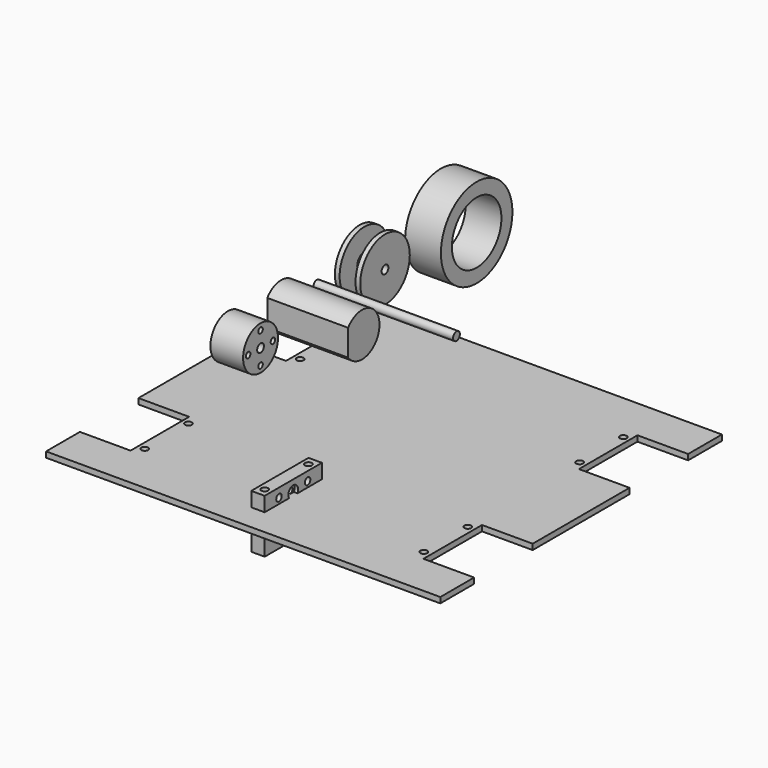
from build123d import *

# Parameters (mm, degrees)
F0_R           = 1.219
F1_DEPTH       = 2
F2_W           = 25.4
F2_H           = 19.05
F2_R           = 2.175
F2_R_2         = 1.219
F2_R_3         = 2
F3_DEPTH       = 4.763
F4_D           = 2.438
F4_CBORE_D     = 4.35
F4_CBORE_DEPTH = 1.3
F6_D           = 2.438
F7_R           = 7.75
F7_R_2         = 1
F7_R_3         = 1.5
F8_DEPTH       = 11.6
F9_SIZE        = 0.25
F11_DEPTH      = 28.7
F12_R          = 1.5
F13_DEPTH      = 49.6
F14_R          = 11
F14_R_2        = 1.5
F15_DEPTH      = 9
F16_T          = -1.68
F17_R          = 15.875
F17_R_2        = 11
F17_R_3        = 3.18
F18_DEPTH      = 12.7
F19_D          = 22
F19_DEPTH      = 20
F19_TIP        = 6.6094668093


with BuildPart() as f1:
    # F0 (on Top) → F1 (new body)
    with BuildSketch(Plane.XY):
        Polygon((69.8144591255, 53.6121664921), (69.8144591255, 68.6121664921), (-70.1855408745, 68.6121664921), (-70.1855408745, 53.6121664921), (-52.1855408745, 53.6121664921), (-52.1855408745, 27.6121664921), (-70.1855408745, 27.6121664921), (-70.1855408745, -15.3878335079), (-52.1855408745, -15.3878335079), (-52.1855408745, -41.3878335079), (-70.1855408745, -41.3878335079), (-70.1855408745, -56.3878335079), (69.8144591255, -56.3878335079), (69.8144591255, -41.3878335079), (51.8144591255, -41.3878335079), (51.8144591255, -15.3878335079), (69.8144591255, -15.3878335079), (69.8144591255, 27.6121664921), (51.8144591255, 27.6121664921), (51.8144591255, 53.6121664921), align=None)
        with Locations((-49.8040408745, -38.0878335079)):
            Circle(F0_R, mode=Mode.SUBTRACT)
        with Locations((-49.8040408745, -18.6878335079)):
            Circle(F0_R, mode=Mode.SUBTRACT)
        with Locations((49.3261239358, -38.0878335079)):
            Circle(F0_R, mode=Mode.SUBTRACT)
        with Locations((49.4325323884, -18.6878335079)):
            Circle(F0_R, mode=Mode.SUBTRACT)
        with Locations((-49.8040408745, 30.9121664921)):
            Circle(F0_R, mode=Mode.SUBTRACT)
        with Locations((-49.8040408745, 50.3121664921)):
            Circle(F0_R, mode=Mode.SUBTRACT)
        with Locations((49.4325323884, 30.9121664921)):
            Circle(F0_R, mode=Mode.SUBTRACT)
        with Locations((49.4325323884, 50.3121664921)):
            Circle(F0_R, mode=Mode.SUBTRACT)
    extrude(amount=F1_DEPTH)


with BuildPart() as f3:
    # F2 (on Right) → F3 (new body)
    with BuildSketch(Plane.YZ):
        with Locations((-34.3866466569, -2.3698601872)):
            Rectangle(F2_W, F2_H)
        with Locations((-40.7366466569, -8.7198601872)):
            Circle(F2_R, mode=Mode.SUBTRACT)
        with Locations((-34.3866466569, -7.8698601872)):
            Circle(F2_R_2, mode=Mode.SUBTRACT)
        with Locations((-28.0366466569, -8.7198601872)):
            Circle(F2_R, mode=Mode.SUBTRACT)
        with Locations((-39.8866466569, -2.3698601872)):
            Circle(F2_R_2, mode=Mode.SUBTRACT)
        with Locations((-40.7366466569, 3.9801398128)):
            Circle(F2_R, mode=Mode.SUBTRACT)
        with Locations((-34.3866466569, -2.3698601872)):
            Circle(F2_R_3, mode=Mode.SUBTRACT)
        with Locations((-28.8866466569, -2.3698601872)):
            Circle(F2_R_2, mode=Mode.SUBTRACT)
        with Locations((-34.3866466569, 3.1301398128)):
            Circle(F2_R_2, mode=Mode.SUBTRACT)
        with Locations((-28.0366466569, 3.9801398128)):
            Circle(F2_R, mode=Mode.SUBTRACT)
        with Locations((-40.7366466569, 3.9801398128)):
            Circle(F2_R)
        with Locations((-40.7366466569, 3.9801398128)):
            Circle(F2_R_2, mode=Mode.SUBTRACT)
        with Locations((-28.0366466569, 3.9801398128)):
            Circle(F2_R)
        with Locations((-28.0366466569, 3.9801398128)):
            Circle(F2_R_2, mode=Mode.SUBTRACT)
        with Locations((-40.7366466569, -8.7198601872)):
            Circle(F2_R)
        with Locations((-40.7366466569, -8.7198601872)):
            Circle(F2_R_2, mode=Mode.SUBTRACT)
        with Locations((-28.0366466569, -8.7198601872)):
            Circle(F2_R)
        with Locations((-28.0366466569, -8.7198601872)):
            Circle(F2_R_2, mode=Mode.SUBTRACT)
    extrude(amount=-F3_DEPTH)

    # F4 (through all)
    with Locations(Plane.YZ):
        with Locations((-39.8866466569, -2.3698601872), (-34.3866466569, 3.1301398128), (-28.8866466569, -2.3698601872), (-34.3866466569, -7.8698601872)):
            CounterBoreHole(F4_D / 2, F4_CBORE_D / 2, F4_CBORE_DEPTH)

    # F6 (through all)
    with Locations(Plane.XY.offset(7.1551398128)):
        with Locations((-2.3815, -44.0866466569), (-2.3815, -24.6866466569)):
            Hole(F6_D / 2)


with BuildPart() as f8:
    # F7 (on Right) → F8 (new body)
    with BuildSketch(Plane.YZ):
        with Locations((-63.4191706777, 63.7860372663)):
            Circle(F7_R)
        with Locations((-63.4191706777, 58.2860372663)):
            Circle(F7_R_2, mode=Mode.SUBTRACT)
        with Locations((-68.9191706777, 63.7860372663)):
            Circle(F7_R_2, mode=Mode.SUBTRACT)
        with Locations((-63.4191706777, 63.7860372663)):
            Circle(F7_R_3, mode=Mode.SUBTRACT)
        with Locations((-57.9191706777, 63.7860372663)):
            Circle(F7_R_2, mode=Mode.SUBTRACT)
        with Locations((-63.4191706777, 69.2860372663)):
            Circle(F7_R_2, mode=Mode.SUBTRACT)
    extrude(amount=F8_DEPTH)

    # F9
    f9_edges = [f8.edges().sort_by_distance(p)[0] for p in [
        (0, -64.419171, 69.286037),
        (0, -58.919171, 63.786037),
        (0, -69.919171, 63.786037),
        (0, -64.419171, 58.286037),
    ]]
    chamfer(f9_edges, length=F9_SIZE)


with BuildPart() as f11:
    # F10 (on Right) → F11 (new body)
    with BuildSketch(Plane.YZ):
        with BuildLine():
            ThreePointArc((-45.931854181, 59.2147338192), (-37.2843533707, 56.5370278333), (-31.9972966215, 63.8852528259))
            ThreePointArc((-31.9972966215, 63.8852528259), (-37.2843533707, 71.2334778186), (-45.931854181, 68.5557718327))
            Line((-45.931854181, 68.5557718327), (-45.931854181, 59.2147338192))
        make_face()
    extrude(amount=F11_DEPTH)


with BuildPart() as f13:
    # F12 (on Right) → F13 (new body)
    with BuildSketch(Plane.YZ):
        with Locations((-23.9373911172, 63.7989491224)):
            Circle(F12_R)
    extrude(amount=F13_DEPTH)


with BuildPart() as f15:
    # F14 (on Right) → F15 (new body)
    with BuildSketch(Plane.YZ):
        with Locations((-4.921969492, 63.6900290847)):
            Circle(F14_R)
        with Locations((-4.921969492, 63.6900290847)):
            Circle(F14_R_2, mode=Mode.SUBTRACT)
    extrude(amount=F15_DEPTH)

    # F16
    f16_openings = [f15.faces().sort_by_distance(p)[0] for p in [
        (4.5, -15.921969, 63.690029),
    ]]
    offset(amount=F16_T, openings=f16_openings)


with BuildPart() as f18:
    # F17 (on Right) → F18 (new body)
    with BuildSketch(Plane.YZ):
        with Locations((31.1321131885, 61.7908798158)):
            Circle(F17_R)
        with Locations((31.1321131885, 61.7908798158)):
            Circle(F17_R_2, mode=Mode.SUBTRACT)
        with Locations((31.1321131885, 61.7908798158)):
            Circle(F17_R_2)
        with Locations((31.1321131885, 61.7908798158)):
            Circle(F17_R_3, mode=Mode.SUBTRACT)
    extrude(amount=F18_DEPTH)

    # F19
    with Locations(Plane(origin=(0, 0, 0), x_dir=(0, 1, 0), z_dir=(-1, 0, 0))):
        with Locations((31.1321131885, -61.7908798158)):
            Hole(F19_D / 2, depth=F19_DEPTH)
            with Locations((0, 0, -(F19_DEPTH + F19_TIP / 2))):  # 118° drill point
                Cone(0, F19_D / 2, F19_TIP, mode=Mode.SUBTRACT)


solid = Compound([f1.part, f3.part, f8.part, f11.part, f13.part, f15.part, f18.part])
